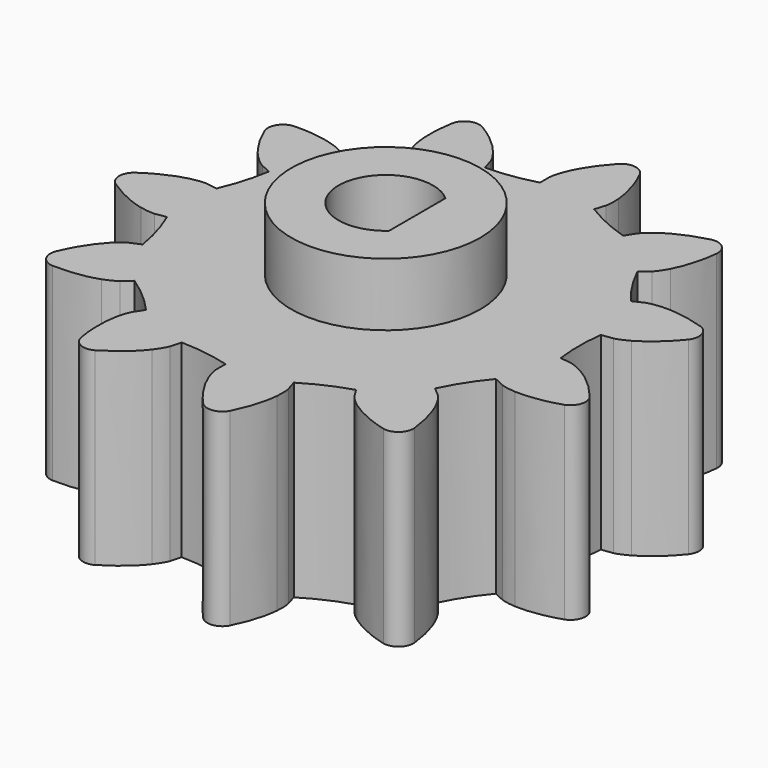
from build123d import *

# Parameters (mm, degrees)
BOX_W             = 10
BOX_H             = 10
BOX_DEPTH         = 15
CYLINDER_R        = 1.5
CYLINDER_DEPTH    = 11
CYLINDER001_R     = 3
CYLINDER001_DEPTH = 7
PAD_DEPTH         = 6


with BuildPart() as box:
    # Box → Box (new body)
    with BuildSketch(Plane(origin=(1, -5, -4), x_dir=(1, 0, 0), z_dir=(0, 0, 1))):
        with Locations((5, 5)):
            Rectangle(BOX_W, BOX_H)
    extrude(amount=BOX_DEPTH)


with BuildPart() as cut:
    # Cylinder → Cylinder (new body)
    with BuildSketch(Plane.XY.offset(-2)):
        Circle(CYLINDER_R)
    extrude(amount=CYLINDER_DEPTH)

    # Cut: cut Box
    add(box.part, mode=Mode.SUBTRACT)


with BuildPart() as cylinder001:
    # Cylinder001 → Cylinder001 (new body)
    with BuildSketch(Plane.XY.offset(1)):
        Circle(CYLINDER001_R)
    extrude(amount=CYLINDER001_DEPTH)


with BuildPart() as cut001:
    # MainGear → Pad (new body)
    with BuildSketch(Plane.XY):
        with BuildLine():
            add(Edge.make_bspline(
                [(8.042347, -1.96065), (7.638876, -1.464819), (7.26056, -1.182529), (6.982365, -1.024354)],
                knots=[0, 0, 0, 0, 1, 1, 1, 1], degree=3))
            add(Edge.make_bspline(
                [(6.982365, -1.024354), (6.7479, -0.892957), (6.597405, -0.853546), (6.54651, -0.842941)],
                knots=[0, 0, 0, 0, 1, 1, 1, 1], degree=3))
            Line((6.54651, -0.842941), (6.187918, -0.795749))
            ThreePointArc((6.187918, -0.795749), (6.136962, 0), (6.187918, 0.795749))
            Line((6.187918, 0.795749), (6.54651, 0.842941))
            add(Edge.make_bspline(
                [(6.54651, 0.842941), (6.597405, 0.853546), (6.7479, 0.892957), (6.982365, 1.024354)],
                knots=[0, 0, 0, 0, 1, 1, 1, 1], degree=3))
            add(Edge.make_bspline(
                [(6.982365, 1.024354), (7.26056, 1.182529), (7.638876, 1.464819), (8.042347, 1.96065)],
                knots=[0, 0, 0, 0, 1, 1, 1, 1], degree=3))
            ThreePointArc((8.042347, 1.96065), (8.120597, 2.384423), (7.82566, 2.698617))
            add(Edge.make_bspline(
                [(7.82566, 2.698617), (7.218172, 2.897604), (6.747295, 2.930548), (6.427746, 2.91321)],
                knots=[0, 0, 0, 0, 1, 1, 1, 1], degree=3))
            add(Edge.make_bspline(
                [(6.427746, 2.91321), (6.159464, 2.896987), (6.011552, 2.848778), (5.963003, 2.830183)],
                knots=[0, 0, 0, 0, 1, 1, 1, 1], degree=3))
            Line((5.963003, 2.830183), (5.635822, 2.676014))
            ThreePointArc((5.635822, 2.676014), (5.162741, 3.317892), (4.775393, 4.014868))
            Line((4.775393, 4.014868), (5.051546, 4.248437))
            add(Edge.make_bspline(
                [(5.051546, 4.248437), (5.088628, 4.284875), (5.193926, 4.399394), (5.320132, 4.636692)],
                knots=[0, 0, 0, 0, 1, 1, 1, 1], degree=3))
            add(Edge.make_bspline(
                [(5.320132, 4.636692), (5.468648, 4.920162), (5.63429, 5.362172), (5.705645, 5.997425)],
                knots=[0, 0, 0, 0, 1, 1, 1, 1], degree=3))
            ThreePointArc((5.705645, 5.997425), (5.542365, 6.39623), (5.124382, 6.501093))
            add(Edge.make_bspline(
                [(5.124382, 6.501093), (4.50575, 6.340058), (4.091812, 6.113197), (3.832364, 5.925851)],
                knots=[0, 0, 0, 0, 1, 1, 1, 1], degree=3))
            add(Edge.make_bspline(
                [(3.832364, 5.925851), (3.615441, 5.767158), (3.517074, 5.646635), (3.486285, 5.604744)],
                knots=[0, 0, 0, 0, 1, 1, 1, 1], degree=3))
            Line((3.486285, 5.604744), (3.294393, 5.298162))
            ThreePointArc((3.294393, 5.298162), (2.549386, 5.582377), (1.846715, 5.959294))
            Line((1.846715, 5.959294), (1.952752, 6.305085))
            add(Edge.make_bspline(
                [(1.952752, 6.305085), (1.964248, 6.355787), (1.990917, 6.509054), (1.968794, 6.776914)],
                knots=[0, 0, 0, 0, 1, 1, 1, 1], degree=3))
            add(Edge.make_bspline(
                [(1.968794, 6.776914), (1.940479, 7.095678), (1.840858, 7.557073), (1.557442, 8.13006)],
                knots=[0, 0, 0, 0, 1, 1, 1, 1], degree=3))
            ThreePointArc((1.557442, 8.13006), (1.204471, 8.37728), (0.796148, 8.239517))
            add(Edge.make_bspline(
                [(0.796148, 8.239517), (0.362784, 7.769588), (0.137207, 7.354949), (0.020233, 7.057075)],
                knots=[0, 0, 0, 0, 1, 1, 1, 1], degree=3))
            add(Edge.make_bspline(
                [(0.020233, 7.057075), (-0.076458, 6.806297), (-0.09405, 6.651725), (-0.097304, 6.599839)],
                knots=[0, 0, 0, 0, 1, 1, 1, 1], degree=3))
            Line((-0.097304, 6.599839), (-0.092983, 6.238181))
            ThreePointArc((-0.092983, 6.238181), (-0.873381, 6.074497), (-1.668282, 6.011687))
            Line((-1.668282, 6.011687), (-1.766027, 6.359913))
            add(Edge.make_bspline(
                [(-1.766027, 6.359913), (-1.783767, 6.408781), (-1.844194, 6.552135), (-2.007621, 6.765514)],
                knots=[0, 0, 0, 0, 1, 1, 1, 1], degree=3))
            add(Edge.make_bspline(
                [(-2.007621, 6.765514), (-2.203778, 7.018366), (-2.537034, 7.352657), (-3.085239, 7.681458)],
                knots=[0, 0, 0, 0, 1, 1, 1, 1], degree=3))
            ThreePointArc((-3.085239, 7.681458), (-3.515834, 7.698603), (-3.784857, 7.361953))
            add(Edge.make_bspline(
                [(-3.784857, 7.361953), (-3.895364, 6.732329), (-3.86096, 6.261557), (-3.798322, 5.947728)],
                knots=[0, 0, 0, 0, 1, 1, 1, 1], degree=3))
            add(Edge.make_bspline(
                [(-3.798322, 5.947728), (-3.744083, 5.684485), (-3.675314, 5.54494), (-3.65, 5.499531)],
                knots=[0, 0, 0, 0, 1, 1, 1, 1], degree=3))
            Line((-3.65, 5.499531), (-3.450837, 5.197621))
            ThreePointArc((-3.450837, 5.197621), (-4.018855, 4.638006), (-4.653611, 4.155411))
            Line((-4.653611, 4.155411), (-4.924104, 4.395513))
            add(Edge.make_bspline(
                [(-4.924104, 4.395513), (-4.965449, 4.427032), (-5.093787, 4.51496), (-5.346631, 4.60611)],
                knots=[0, 0, 0, 0, 1, 1, 1, 1], degree=3))
            add(Edge.make_bspline(
                [(-5.346631, 4.60611), (-5.648352, 4.712773), (-6.109436, 4.813825), (-6.748378, 4.794048)],
                knots=[0, 0, 0, 0, 1, 1, 1, 1], degree=3))
            ThreePointArc((-6.748378, 4.794048), (-7.119887, 4.575673), (-7.164196, 4.147021))
            add(Edge.make_bspline(
                [(-7.164196, 4.147021), (-6.91676, 3.557603), (-6.633299, 3.180165), (-6.410936, 2.950019)],
                knots=[0, 0, 0, 0, 1, 1, 1, 1], degree=3))
            add(Edge.make_bspline(
                [(-6.410936, 2.950019), (-6.222988, 2.757889), (-6.089692, 2.677676), (-6.043846, 2.653161)],
                knots=[0, 0, 0, 0, 1, 1, 1, 1], degree=3))
            Line((-6.043846, 2.653161), (-5.713075, 2.506853))
            ThreePointArc((-5.713075, 2.506853), (-5.888372, 1.728982), (-6.161452, 0.979822))
            Line((-6.161452, 0.979822), (-6.518814, 1.035569))
            add(Edge.make_bspline(
                [(-6.518814, 1.035569), (-6.570636, 1.039732), (-6.726138, 1.044317), (-6.988124, 0.984299)],
                knots=[0, 0, 0, 0, 1, 1, 1, 1], degree=3))
            add(Edge.make_bspline(
                [(-6.988124, 0.984299), (-7.299613, 0.910908), (-7.742135, 0.746637), (-8.268954, 0.384561)],
                knots=[0, 0, 0, 0, 1, 1, 1, 1], degree=3))
            ThreePointArc((-8.268954, 0.384561), (-8.463426, 0), (-8.268954, -0.384561))
            add(Edge.make_bspline(
                [(-8.268954, -0.384561), (-7.742135, -0.746637), (-7.299613, -0.910908), (-6.988124, -0.984299)],
                knots=[0, 0, 0, 0, 1, 1, 1, 1], degree=3))
            add(Edge.make_bspline(
                [(-6.988124, -0.984299), (-6.726138, -1.044317), (-6.570636, -1.039732), (-6.518814, -1.035569)],
                knots=[0, 0, 0, 0, 1, 1, 1, 1], degree=3))
            Line((-6.518814, -1.035569), (-6.161452, -0.979822))
            ThreePointArc((-6.161452, -0.979822), (-5.888372, -1.728982), (-5.713075, -2.506853))
            Line((-5.713075, -2.506853), (-6.043846, -2.653161))
            add(Edge.make_bspline(
                [(-6.043846, -2.653161), (-6.089692, -2.677676), (-6.222988, -2.757889), (-6.410936, -2.950019)],
                knots=[0, 0, 0, 0, 1, 1, 1, 1], degree=3))
            add(Edge.make_bspline(
                [(-6.410936, -2.950019), (-6.633299, -3.180165), (-6.91676, -3.557603), (-7.164196, -4.147021)],
                knots=[0, 0, 0, 0, 1, 1, 1, 1], degree=3))
            ThreePointArc((-7.164196, -4.147021), (-7.119887, -4.575673), (-6.748378, -4.794048))
            add(Edge.make_bspline(
                [(-6.748378, -4.794048), (-6.109436, -4.813825), (-5.648352, -4.712773), (-5.346631, -4.60611)],
                knots=[0, 0, 0, 0, 1, 1, 1, 1], degree=3))
            add(Edge.make_bspline(
                [(-5.346631, -4.60611), (-5.093787, -4.51496), (-4.965449, -4.427032), (-4.924104, -4.395513)],
                knots=[0, 0, 0, 0, 1, 1, 1, 1], degree=3))
            Line((-4.924104, -4.395513), (-4.653611, -4.155411))
            ThreePointArc((-4.653611, -4.155411), (-4.018855, -4.638006), (-3.450837, -5.197621))
            Line((-3.450837, -5.197621), (-3.65, -5.499531))
            add(Edge.make_bspline(
                [(-3.65, -5.499531), (-3.675314, -5.54494), (-3.744083, -5.684485), (-3.798322, -5.947728)],
                knots=[0, 0, 0, 0, 1, 1, 1, 1], degree=3))
            add(Edge.make_bspline(
                [(-3.798322, -5.947728), (-3.86096, -6.261557), (-3.895364, -6.732329), (-3.784857, -7.361953)],
                knots=[0, 0, 0, 0, 1, 1, 1, 1], degree=3))
            ThreePointArc((-3.784857, -7.361953), (-3.515834, -7.698603), (-3.085239, -7.681458))
            add(Edge.make_bspline(
                [(-3.085239, -7.681458), (-2.537034, -7.352657), (-2.203778, -7.018366), (-2.007621, -6.765514)],
                knots=[0, 0, 0, 0, 1, 1, 1, 1], degree=3))
            add(Edge.make_bspline(
                [(-2.007621, -6.765514), (-1.844194, -6.552135), (-1.783767, -6.408781), (-1.766027, -6.359913)],
                knots=[0, 0, 0, 0, 1, 1, 1, 1], degree=3))
            Line((-1.766027, -6.359913), (-1.668282, -6.011687))
            ThreePointArc((-1.668282, -6.011687), (-0.873381, -6.074497), (-0.092983, -6.238181))
            Line((-0.092983, -6.238181), (-0.097304, -6.599839))
            add(Edge.make_bspline(
                [(-0.097304, -6.599839), (-0.09405, -6.651725), (-0.076458, -6.806297), (0.020233, -7.057075)],
                knots=[0, 0, 0, 0, 1, 1, 1, 1], degree=3))
            add(Edge.make_bspline(
                [(0.020233, -7.057075), (0.137207, -7.354949), (0.362784, -7.769588), (0.796148, -8.239517)],
                knots=[0, 0, 0, 0, 1, 1, 1, 1], degree=3))
            ThreePointArc((0.796148, -8.239517), (1.204471, -8.37728), (1.557442, -8.13006))
            add(Edge.make_bspline(
                [(1.557442, -8.13006), (1.840858, -7.557073), (1.940479, -7.095678), (1.968794, -6.776914)],
                knots=[0, 0, 0, 0, 1, 1, 1, 1], degree=3))
            add(Edge.make_bspline(
                [(1.968794, -6.776914), (1.990917, -6.509054), (1.964248, -6.355787), (1.952752, -6.305085)],
                knots=[0, 0, 0, 0, 1, 1, 1, 1], degree=3))
            Line((1.952752, -6.305085), (1.846715, -5.959294))
            ThreePointArc((1.846715, -5.959294), (2.549386, -5.582377), (3.294393, -5.298162))
            Line((3.294393, -5.298162), (3.486285, -5.604744))
            add(Edge.make_bspline(
                [(3.486285, -5.604744), (3.517074, -5.646635), (3.615441, -5.767158), (3.832364, -5.925851)],
                knots=[0, 0, 0, 0, 1, 1, 1, 1], degree=3))
            add(Edge.make_bspline(
                [(3.832364, -5.925851), (4.091812, -6.113197), (4.50575, -6.340058), (5.124382, -6.501093)],
                knots=[0, 0, 0, 0, 1, 1, 1, 1], degree=3))
            ThreePointArc((5.124382, -6.501093), (5.542365, -6.39623), (5.705645, -5.997425))
            add(Edge.make_bspline(
                [(5.705645, -5.997425), (5.63429, -5.362172), (5.468648, -4.920162), (5.320132, -4.636692)],
                knots=[0, 0, 0, 0, 1, 1, 1, 1], degree=3))
            add(Edge.make_bspline(
                [(5.320132, -4.636692), (5.193926, -4.399394), (5.088628, -4.284875), (5.051546, -4.248437)],
                knots=[0, 0, 0, 0, 1, 1, 1, 1], degree=3))
            Line((5.051546, -4.248437), (4.775393, -4.014868))
            ThreePointArc((4.775393, -4.014868), (5.162741, -3.317892), (5.635822, -2.676014))
            Line((5.635822, -2.676014), (5.963003, -2.830183))
            add(Edge.make_bspline(
                [(5.963003, -2.830183), (6.011552, -2.848778), (6.159464, -2.896987), (6.427746, -2.91321)],
                knots=[0, 0, 0, 0, 1, 1, 1, 1], degree=3))
            add(Edge.make_bspline(
                [(6.427746, -2.91321), (6.747295, -2.930548), (7.218172, -2.897604), (7.82566, -2.698617)],
                knots=[0, 0, 0, 0, 1, 1, 1, 1], degree=3))
            ThreePointArc((7.82566, -2.698617), (8.120597, -2.384423), (8.042347, -1.96065))
        make_face()
    extrude(amount=PAD_DEPTH)

    # Fusion: union Cylinder001
    add(cylinder001.part)

    # Cut001: cut Cut
    add(cut.part, mode=Mode.SUBTRACT)


solid = cut001.part
